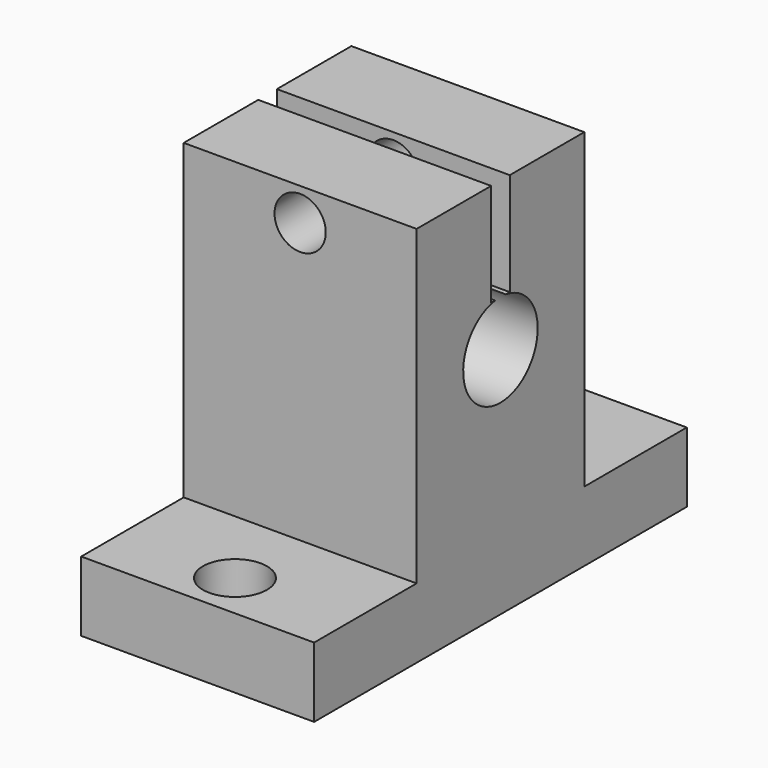
from build123d import *

# Parameters (mm, degrees)
SKETCH008_W              = 40
SKETCH008_H              = 20
SKETCH008_R              = 2.75
PAD005_DEPTH             = 6
SKETCH009_W              = 18
SKETCH009_H              = 20
PAD006_DEPTH             = 26.8
SKETCH010_R              = 4
POCKET001_DEPTH          = 20.001
SKETCH011_W              = 2
SKETCH011_H              = 8.8415096984
POCKET002_DEPTH          = 20.001
SKETCH012_R              = 2.2
POCKET003_DEPTH          = 29.001
CLONE011_PLACEMENT_ANGLE = 90


with BuildPart() as part:
    # Sketch008 → Pad005 (new body)
    with BuildSketch(Plane.XY):
        Rectangle(SKETCH008_W, SKETCH008_H)
        with Locations((-16, 0)):
            Circle(SKETCH008_R, mode=Mode.SUBTRACT)
        with Locations((16, 0)):
            Circle(SKETCH008_R, mode=Mode.SUBTRACT)
    extrude(amount=PAD005_DEPTH)

    # Sketch009 (on Face8 of Pad005) → Pad006 (join)
    with BuildSketch(Plane.XY.offset(6)):
        Rectangle(SKETCH009_W, SKETCH009_H)
    extrude(amount=PAD006_DEPTH)

    # Sketch010 (on Face14 of Pad006) → Pocket001 (cut, through all)
    with BuildSketch(Plane.XZ.offset(10)):
        with Locations((0, 20)):
            Circle(SKETCH010_R)
    extrude(amount=-POCKET001_DEPTH, mode=Mode.SUBTRACT)

    # Sketch011 (on Face15 of Pocket001) → Pocket002 (cut, through all)
    with BuildSketch(Plane.XZ.offset(10)):
        with Locations((0, 28.3792451508)):
            Rectangle(SKETCH011_W, SKETCH011_H)
    extrude(amount=-POCKET002_DEPTH, mode=Mode.SUBTRACT)

    # Sketch012 (on Face12 of Pocket002) → Pocket003 (cut, through all)
    with BuildSketch(Plane.YZ.offset(9)):
        with Locations((0, 30)):
            Circle(SKETCH012_R)
    extrude(amount=-POCKET003_DEPTH, mode=Mode.SUBTRACT)


with BuildPart() as part_1:
    # Clone011 placement: moved
    add(part.part.moved(Location((10, -100, 10))).rotate(Axis((10, -100, 10), (0, 0, 1)), CLONE011_PLACEMENT_ANGLE))


solid = part_1.part
